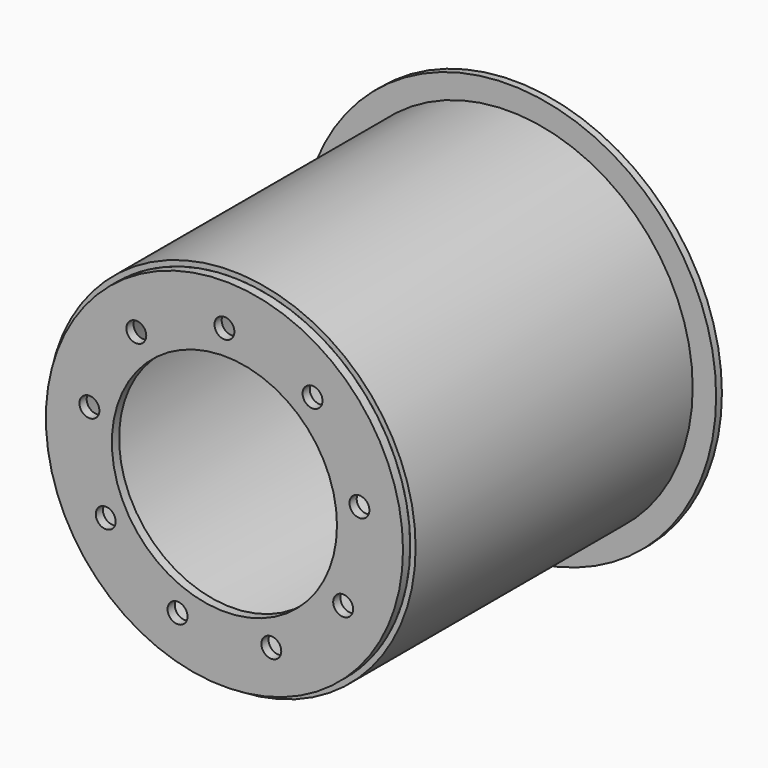
from build123d import *

# Parameters (mm, degrees)
F0_R     = 157.1625
F0_R_2   = 99.06
F1_DEPTH = 7.9375
F2_R     = 8.763
F3_DEPTH = 7.9385
F4_R     = 161.925
F4_R_2   = 157.1625
F5_DEPTH = 304.8
F6_R     = 182.5625
F6_R_2   = 157.1625
F7_DEPTH = 6.35


with BuildPart() as f1:
    # F0 (on Front) → F1 (new body)
    with BuildSketch(Plane.XZ):
        Circle(F0_R)
        Circle(F0_R_2, mode=Mode.SUBTRACT)
    extrude(amount=F1_DEPTH)

    # F2 (on face) → F3 (cut, through all)
    with BuildSketch(Plane.XZ.offset(7.9375)):
        with Locations((0, 120.65)):
            Circle(F2_R)
        with Locations((-77.552325, 92.423262)):
            Circle(F2_R)
        with Locations((-118.817055, 20.950653)):
            Circle(F2_R)
        with Locations((-104.485965, -60.325)):
            Circle(F2_R)
        with Locations((-41.26473, -113.373915)):
            Circle(F2_R)
        with Locations((41.26473, -113.373915)):
            Circle(F2_R)
        with Locations((104.485965, -60.325)):
            Circle(F2_R)
        with Locations((118.817055, 20.950653)):
            Circle(F2_R)
        with Locations((77.552325, 92.423262)):
            Circle(F2_R)
    extrude(amount=-F3_DEPTH, mode=Mode.SUBTRACT)


with BuildPart() as f5:
    # F4 (on face) → F5 (new body)
    with BuildSketch(Plane(origin=(0, 0, 0), x_dir=(-1, 0, 0), z_dir=(0, 1, 0))):
        Circle(F4_R)
        Circle(F4_R_2, mode=Mode.SUBTRACT)
    extrude(amount=F5_DEPTH)


with BuildPart() as f7:
    # F6 (on face) → F7 (new body)
    with BuildSketch(Plane(origin=(0, 304.8, 0), x_dir=(-1, 0, 0), z_dir=(0, 1, 0))):
        Circle(F6_R)
        Circle(F6_R_2, mode=Mode.SUBTRACT)
    extrude(amount=F7_DEPTH)


solid = Compound([f1.part, f5.part, f7.part])
